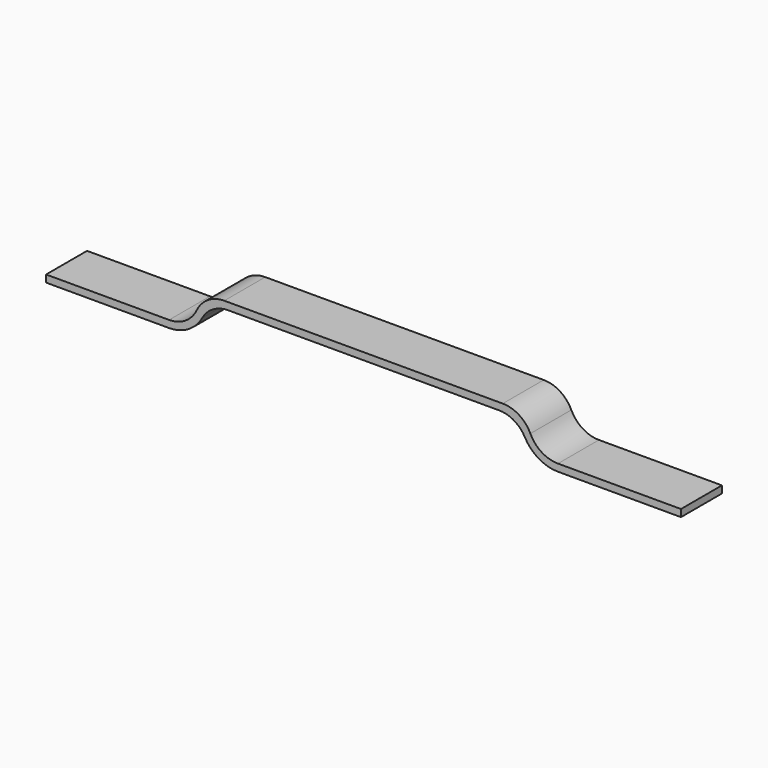
from build123d import *

# Parameters (mm, degrees)
F1_DEPTH = 25


with BuildPart() as f1:
    # F0 (on Front) → F1 (new body)
    with BuildSketch(Plane.XZ):
        with BuildLine():
            Line((223.026821, 17.026341), (155.026801, 17.026341))
            Line((155.026801, 17.026341), (155.026801, 13.526341))
            Line((155.026801, 13.526341), (221.246859, 13.526341))
            ThreePointArc((221.246859, 13.526341), (228.554933, 11.523823), (233.821421, 6.07569))
            ThreePointArc((233.821421, 6.07569), (240.58999, -0.926332), (249.982439, -3.5))
            Line((249.982439, -3.5), (310.053602, -3.5))
            Line((310.053602, -3.5), (310.053602, 0))
            Line((310.053602, 0), (249.982439, 0))
            ThreePointArc((249.982439, 0), (242.011783, 2.306512), (236.50463, 8.513171))
            ThreePointArc((236.50463, 8.513171), (230.997477, 14.71983), (223.026821, 17.026341))
        make_face()
        with BuildLine():
            Line((60.071163, 0), (0, 0))
            Line((0, 0), (0, -3.5))
            Line((0, -3.5), (60.071163, -3.5))
            ThreePointArc((60.071163, -3.5), (69.463611, -0.926332), (76.232181, 6.07569))
            ThreePointArc((76.232181, 6.07569), (81.498668, 11.523823), (88.806743, 13.526341))
            Line((88.806743, 13.526341), (155.026801, 13.526341))
            Line((155.026801, 13.526341), (155.026801, 17.026341))
            Line((155.026801, 17.026341), (87.02678, 17.026341))
            ThreePointArc((87.02678, 17.026341), (79.056125, 14.71983), (73.548972, 8.513171))
            ThreePointArc((73.548972, 8.513171), (68.041819, 2.306512), (60.071163, 0))
        make_face()
    extrude(amount=F1_DEPTH)


solid = f1.part
